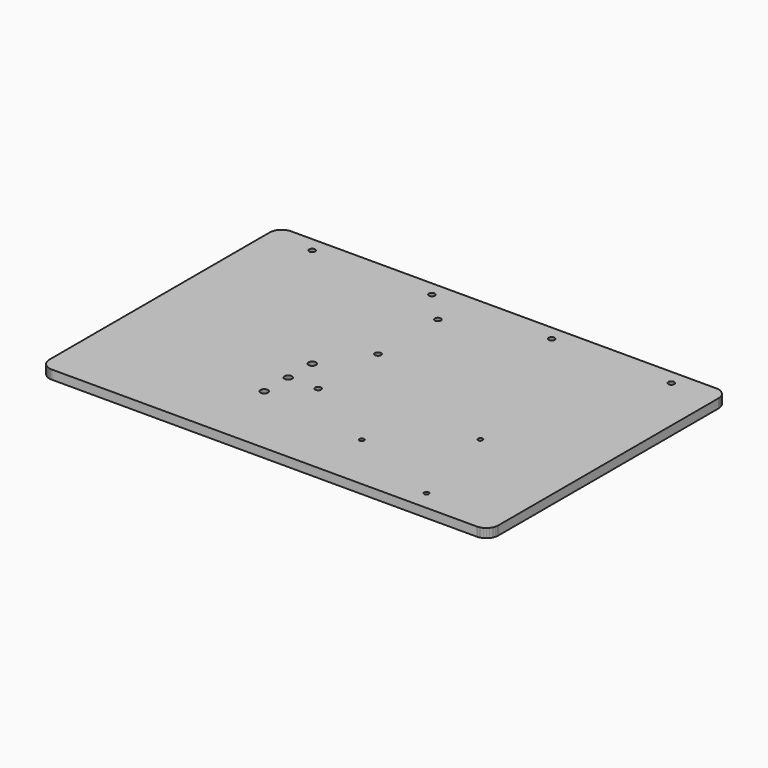
from build123d import *

# Parameters (mm, degrees)
F1_DEPTH = 6


with BuildPart() as f1:
    # F0 (on Top) → F1 (new body)
    with BuildSketch(Plane.XY):
        Polygon((142, -100), (142.784, -99.961487), (143.561, -99.846283), (144.322, -99.655533), (145.061, -99.391037), (145.771, -99.055374), (146.445, -98.65176), (147.075, -98.1841), (147.657, -97.65686), (148.184, -97.07515), (148.652, -96.44456), (149.055, -95.77118), (149.391, -95.06148), (149.656, -94.32228), (149.846, -93.56073), (149.961, -92.78415), (150, -92), (150, 92), (149.961, 92.784), (149.846, 93.561), (149.656, 94.322), (149.391, 95.061), (149.055, 95.771), (148.652, 96.445), (148.184, 97.075), (147.657, 97.657), (147.075, 98.184), (146.445, 98.652), (145.771, 99.055), (145.061, 99.391), (144.322, 99.656), (143.561, 99.846), (142.784, 99.961), (142, 100), (-142, 100), (-142.78415, 99.961), (-143.56073, 99.846), (-144.32228, 99.656), (-145.06148, 99.391), (-145.77118, 99.055), (-146.44456, 98.652), (-147.07515, 98.184), (-147.65686, 97.657), (-148.1841, 97.075), (-148.65176, 96.445), (-149.055374, 95.771), (-149.391037, 95.061), (-149.655533, 94.322), (-149.846283, 93.561), (-149.961487, 92.784), (-150, 92), (-150, -92), (-149.961487, -92.78415), (-149.846283, -93.56073), (-149.655533, -94.32228), (-149.391037, -95.06148), (-149.055374, -95.77118), (-148.65176, -96.44456), (-148.1841, -97.07515), (-147.65686, -97.65686), (-147.07515, -98.1841), (-146.44456, -98.65176), (-145.77118, -99.055374), (-145.06148, -99.391037), (-144.32228, -99.655533), (-143.56073, -99.846283), (-142.78415, -99.961487), (-142.00002, -100), align=None)
        Polygon((-40, -52.5), (-40.245, -52.488), (-40.488, -52.452), (-40.726, -52.3924), (-40.957, -52.3097), (-41.178, -52.2048), (-41.389, -52.0787), (-41.586, -51.9325), (-41.768, -51.7678), (-41.933, -51.586), (-42.079, -51.3889), (-42.205, -51.1785), (-42.31, -50.9567), (-42.392, -50.7257), (-42.452, -50.4877), (-42.488, -50.2451), (-42.5, -50), (-42.488, -49.755), (-42.452, -49.5123), (-42.392, -49.2743), (-42.31, -49.0433), (-42.205, -48.8215), (-42.079, -48.6111), (-41.933, -48.414), (-41.768, -48.2322), (-41.586, -48.0675), (-41.389, -47.9213), (-41.178, -47.7952), (-40.957, -47.6903), (-40.726, -47.6077), (-40.488, -47.548), (-40.245, -47.512), (-40, -47.5), (-39.755, -47.512), (-39.512, -47.548), (-39.274, -47.6077), (-39.043, -47.6903), (-38.822, -47.7952), (-38.611, -47.9213), (-38.414, -48.0675), (-38.232, -48.2322), (-38.067, -48.414), (-37.921, -48.6111), (-37.795, -48.8215), (-37.69, -49.0433), (-37.608, -49.2743), (-37.548, -49.5123), (-37.512, -49.755), (-37.5, -50), (-37.512, -50.2451), (-37.548, -50.4877), (-37.608, -50.7257), (-37.69, -50.9567), (-37.795, -51.1785), (-37.921, -51.3889), (-38.067, -51.586), (-38.232, -51.7678), (-38.414, -51.9325), (-38.611, -52.0787), (-38.822, -52.2048), (-39.043, -52.3097), (-39.274, -52.3924), (-39.512, -52.452), (-39.755, -52.488), align=None, mode=Mode.SUBTRACT)
        Polygon((-40, -32.5), (-40.245, -32.488), (-40.488, -32.452), (-40.726, -32.3924), (-40.957, -32.3097), (-41.178, -32.2048), (-41.389, -32.0787), (-41.586, -31.9325), (-41.768, -31.7678), (-41.933, -31.586), (-42.079, -31.3889), (-42.205, -31.1785), (-42.31, -30.9567), (-42.392, -30.7257), (-42.452, -30.4877), (-42.488, -30.2451), (-42.5, -30), (-42.488, -29.755), (-42.452, -29.5123), (-42.392, -29.2743), (-42.31, -29.0433), (-42.205, -28.8215), (-42.079, -28.6111), (-41.933, -28.414), (-41.768, -28.2322), (-41.586, -28.0675), (-41.389, -27.9213), (-41.178, -27.7952), (-40.957, -27.6903), (-40.726, -27.6077), (-40.488, -27.548), (-40.245, -27.512), (-40, -27.5), (-39.755, -27.512), (-39.512, -27.548), (-39.274, -27.6077), (-39.043, -27.6903), (-38.822, -27.7952), (-38.611, -27.9213), (-38.414, -28.0675), (-38.232, -28.2322), (-38.067, -28.414), (-37.921, -28.6111), (-37.795, -28.8215), (-37.69, -29.0433), (-37.608, -29.2743), (-37.548, -29.5123), (-37.512, -29.755), (-37.5, -30), (-37.512, -30.2451), (-37.548, -30.4877), (-37.608, -30.7257), (-37.69, -30.9567), (-37.795, -31.1785), (-37.921, -31.3889), (-38.067, -31.586), (-38.232, -31.7678), (-38.414, -31.9325), (-38.611, -32.0787), (-38.822, -32.2048), (-39.043, -32.3097), (-39.274, -32.3924), (-39.512, -32.452), (-39.755, -32.488), align=None, mode=Mode.SUBTRACT)
        Polygon((-20, -32), (-20.196, -31.9904), (-20.39, -31.9616), (-20.581, -31.9139), (-20.765, -31.8478), (-20.943, -31.7639), (-21.111, -31.6629), (-21.269, -31.546), (-21.414, -31.4142), (-21.546, -31.2688), (-21.663, -31.1111), (-21.764, -30.9428), (-21.848, -30.7654), (-21.914, -30.5806), (-21.962, -30.3902), (-21.99, -30.196), (-22, -30), (-21.99, -29.804), (-21.962, -29.6098), (-21.914, -29.4194), (-21.848, -29.2346), (-21.764, -29.0572), (-21.663, -28.8889), (-21.546, -28.7312), (-21.414, -28.5858), (-21.269, -28.454), (-21.111, -28.3371), (-20.943, -28.2362), (-20.765, -28.1523), (-20.581, -28.0861), (-20.39, -28.0384), (-20.196, -28.0096), (-20, -28), (-19.804, -28.0096), (-19.61, -28.0384), (-19.419, -28.0861), (-19.235, -28.1523), (-19.057, -28.2362), (-18.889, -28.3371), (-18.731, -28.454), (-18.586, -28.5858), (-18.454, -28.7312), (-18.337, -28.8889), (-18.236, -29.0572), (-18.152, -29.2346), (-18.086, -29.4194), (-18.038, -29.6098), (-18.01, -29.804), (-18, -30), (-18.01, -30.196), (-18.038, -30.3902), (-18.086, -30.5806), (-18.152, -30.7654), (-18.236, -30.9428), (-18.337, -31.1111), (-18.454, -31.2688), (-18.586, -31.4142), (-18.731, -31.546), (-18.889, -31.6629), (-19.057, -31.7639), (-19.235, -31.8478), (-19.419, -31.9139), (-19.61, -31.9616), (-19.804, -31.9904), align=None, mode=Mode.SUBTRACT)
        Polygon((-40, -12.5), (-40.245, -12.488), (-40.488, -12.452), (-40.726, -12.3924), (-40.957, -12.3097), (-41.178, -12.2048), (-41.389, -12.0787), (-41.586, -11.9325), (-41.768, -11.7678), (-41.933, -11.586), (-42.079, -11.3889), (-42.205, -11.1785), (-42.31, -10.9567), (-42.392, -10.7257), (-42.452, -10.4877), (-42.488, -10.2451), (-42.5, -10), (-42.488, -9.755), (-42.452, -9.5123), (-42.392, -9.2743), (-42.31, -9.0433), (-42.205, -8.8215), (-42.079, -8.6111), (-41.933, -8.414), (-41.768, -8.2322), (-41.586, -8.0675), (-41.389, -7.9213), (-41.178, -7.7952), (-40.957, -7.6903), (-40.726, -7.6077), (-40.488, -7.548), (-40.245, -7.512), (-40, -7.5), (-39.755, -7.512), (-39.512, -7.548), (-39.274, -7.6077), (-39.043, -7.6903), (-38.822, -7.7952), (-38.611, -7.9213), (-38.414, -8.0675), (-38.232, -8.2322), (-38.067, -8.414), (-37.921, -8.6111), (-37.795, -8.8215), (-37.69, -9.0433), (-37.608, -9.2743), (-37.548, -9.5123), (-37.512, -9.755), (-37.5, -10), (-37.512, -10.2451), (-37.548, -10.4877), (-37.608, -10.7257), (-37.69, -10.9567), (-37.795, -11.1785), (-37.921, -11.3889), (-38.067, -11.586), (-38.232, -11.7678), (-38.414, -11.9325), (-38.611, -12.0787), (-38.822, -12.2048), (-39.043, -12.3097), (-39.274, -12.3924), (-39.512, -12.452), (-39.755, -12.488), align=None, mode=Mode.SUBTRACT)
        Polygon((34, -62.55), (33.848, -62.5425), (33.698, -62.5202), (33.55, -62.4833), (33.407, -62.432), (33.269, -62.367), (33.139, -62.2888), (33.017, -62.1982), (32.904, -62.096), (32.802, -61.9833), (32.711, -61.8611), (32.633, -61.7307), (32.568, -61.5932), (32.517, -61.45), (32.48, -61.3024), (32.457, -61.1519), (32.45, -61), (32.457, -60.8481), (32.48, -60.6976), (32.517, -60.5501), (32.568, -60.4068), (32.633, -60.2693), (32.711, -60.1389), (32.802, -60.0167), (32.904, -59.904), (33.017, -59.8018), (33.139, -59.7112), (33.269, -59.633), (33.407, -59.568), (33.55, -59.5168), (33.698, -59.4798), (33.848, -59.4575), (34, -59.45), (34.152, -59.4575), (34.302, -59.4798), (34.45, -59.5168), (34.593, -59.568), (34.731, -59.633), (34.861, -59.7112), (34.983, -59.8018), (35.096, -59.904), (35.198, -60.0167), (35.289, -60.1389), (35.367, -60.2693), (35.432, -60.4068), (35.483, -60.5501), (35.52, -60.6976), (35.543, -60.8481), (35.55, -61), (35.543, -61.1519), (35.52, -61.3024), (35.483, -61.45), (35.432, -61.5932), (35.367, -61.7307), (35.289, -61.8611), (35.198, -61.9833), (35.096, -62.096), (34.983, -62.1982), (34.861, -62.2888), (34.731, -62.367), (34.593, -62.432), (34.45, -62.4833), (34.302, -62.5202), (34.152, -62.5425), align=None, mode=Mode.SUBTRACT)
        Polygon((98, -88.55), (97.848, -88.5425), (97.698, -88.5202), (97.55, -88.4833), (97.407, -88.432), (97.269, -88.367), (97.139, -88.2888), (97.017, -88.1982), (96.904, -88.096), (96.802, -87.9833), (96.711, -87.8611), (96.633, -87.7307), (96.568, -87.5932), (96.517, -87.45), (96.48, -87.3024), (96.457, -87.1519), (96.45, -87), (96.457, -86.8481), (96.48, -86.6976), (96.517, -86.5501), (96.568, -86.4068), (96.633, -86.2693), (96.711, -86.1389), (96.802, -86.0167), (96.904, -85.904), (97.017, -85.8018), (97.139, -85.7112), (97.269, -85.633), (97.407, -85.568), (97.55, -85.5168), (97.698, -85.4798), (97.848, -85.4575), (98, -85.45), (98.152, -85.4575), (98.302, -85.4798), (98.45, -85.5168), (98.593, -85.568), (98.731, -85.633), (98.861, -85.7112), (98.983, -85.8018), (99.096, -85.904), (99.198, -86.0167), (99.289, -86.1389), (99.367, -86.2693), (99.432, -86.4068), (99.483, -86.5501), (99.52, -86.6976), (99.543, -86.8481), (99.55, -87), (99.543, -87.1519), (99.52, -87.3024), (99.483, -87.45), (99.432, -87.5932), (99.367, -87.7307), (99.289, -87.8611), (99.198, -87.9833), (99.096, -88.096), (98.983, -88.1982), (98.861, -88.2888), (98.731, -88.367), (98.593, -88.432), (98.45, -88.4833), (98.302, -88.5202), (98.152, -88.5425), align=None, mode=Mode.SUBTRACT)
        Polygon((82, -23.55), (81.848, -23.5425), (81.698, -23.5202), (81.55, -23.4833), (81.407, -23.432), (81.269, -23.367), (81.139, -23.2888), (81.017, -23.1982), (80.904, -23.096), (80.802, -22.9833), (80.711, -22.8611), (80.633, -22.7307), (80.568, -22.5932), (80.517, -22.45), (80.48, -22.3024), (80.457, -22.1519), (80.45, -22), (80.457, -21.8481), (80.48, -21.6976), (80.517, -21.5501), (80.568, -21.4068), (80.633, -21.2693), (80.711, -21.1389), (80.802, -21.0167), (80.904, -20.904), (81.017, -20.8018), (81.139, -20.7112), (81.269, -20.633), (81.407, -20.568), (81.55, -20.5168), (81.698, -20.4798), (81.848, -20.4575), (82, -20.45), (82.152, -20.4575), (82.302, -20.4798), (82.45, -20.5168), (82.593, -20.568), (82.731, -20.633), (82.861, -20.7112), (82.983, -20.8018), (83.096, -20.904), (83.198, -21.0167), (83.289, -21.1389), (83.367, -21.2693), (83.432, -21.4068), (83.483, -21.5501), (83.52, -21.6976), (83.543, -21.8481), (83.55, -22), (83.543, -22.1519), (83.52, -22.3024), (83.483, -22.45), (83.432, -22.5932), (83.367, -22.7307), (83.289, -22.8611), (83.198, -22.9833), (83.096, -23.096), (82.983, -23.1982), (82.861, -23.2888), (82.731, -23.367), (82.593, -23.432), (82.45, -23.4833), (82.302, -23.5202), (82.152, -23.5425), align=None, mode=Mode.SUBTRACT)
        Polygon((-20, 18), (-20.196, 18.01), (-20.39, 18.038), (-20.581, 18.086), (-20.765, 18.152), (-20.943, 18.236), (-21.111, 18.337), (-21.269, 18.454), (-21.414, 18.586), (-21.546, 18.731), (-21.663, 18.889), (-21.764, 19.057), (-21.848, 19.235), (-21.914, 19.419), (-21.962, 19.61), (-21.99, 19.804), (-22, 20), (-21.99, 20.196), (-21.962, 20.39), (-21.914, 20.581), (-21.848, 20.765), (-21.764, 20.943), (-21.663, 21.111), (-21.546, 21.269), (-21.414, 21.414), (-21.269, 21.546), (-21.111, 21.663), (-20.943, 21.764), (-20.765, 21.848), (-20.581, 21.914), (-20.39, 21.962), (-20.196, 21.99), (-20, 22), (-19.804, 21.99), (-19.61, 21.962), (-19.419, 21.914), (-19.235, 21.848), (-19.057, 21.764), (-18.889, 21.663), (-18.731, 21.546), (-18.586, 21.414), (-18.454, 21.269), (-18.337, 21.111), (-18.236, 20.943), (-18.152, 20.765), (-18.086, 20.581), (-18.038, 20.39), (-18.01, 20.196), (-18, 20), (-18.01, 19.804), (-18.038, 19.61), (-18.086, 19.419), (-18.152, 19.235), (-18.236, 19.057), (-18.337, 18.889), (-18.454, 18.731), (-18.586, 18.586), (-18.731, 18.454), (-18.889, 18.337), (-19.057, 18.236), (-19.235, 18.152), (-19.419, 18.086), (-19.61, 18.038), (-19.804, 18.01), align=None, mode=Mode.SUBTRACT)
        Polygon((-120, 88), (-120.196, 88.01), (-120.3902, 88.038), (-120.5806, 88.086), (-120.7654, 88.152), (-120.9428, 88.236), (-121.1111, 88.337), (-121.2688, 88.454), (-121.4142, 88.586), (-121.546, 88.731), (-121.6629, 88.889), (-121.7639, 89.057), (-121.8478, 89.235), (-121.9139, 89.419), (-121.9616, 89.61), (-121.9904, 89.804), (-122, 90), (-121.9904, 90.196), (-121.9616, 90.39), (-121.9139, 90.581), (-121.8478, 90.765), (-121.7639, 90.943), (-121.6629, 91.111), (-121.546, 91.269), (-121.4142, 91.414), (-121.2688, 91.546), (-121.1111, 91.663), (-120.9428, 91.764), (-120.7654, 91.848), (-120.5806, 91.914), (-120.3902, 91.962), (-120.196, 91.99), (-120, 92), (-119.804, 91.99), (-119.6098, 91.962), (-119.4194, 91.914), (-119.2346, 91.848), (-119.0572, 91.764), (-118.8889, 91.663), (-118.7312, 91.546), (-118.5858, 91.414), (-118.454, 91.269), (-118.3371, 91.111), (-118.2362, 90.943), (-118.1523, 90.765), (-118.0861, 90.581), (-118.0384, 90.39), (-118.0096, 90.196), (-118, 90), (-118.0096, 89.804), (-118.0384, 89.61), (-118.0861, 89.419), (-118.1523, 89.235), (-118.2362, 89.057), (-118.3371, 88.889), (-118.454, 88.731), (-118.5858, 88.586), (-118.7312, 88.454), (-118.8889, 88.337), (-119.0572, 88.236), (-119.2346, 88.152), (-119.4194, 88.086), (-119.6098, 88.038), (-119.804, 88.01), align=None, mode=Mode.SUBTRACT)
        Polygon((-20, 68), (-20.196, 68.01), (-20.39, 68.038), (-20.581, 68.086), (-20.765, 68.152), (-20.943, 68.236), (-21.111, 68.337), (-21.269, 68.454), (-21.414, 68.586), (-21.546, 68.731), (-21.663, 68.889), (-21.764, 69.057), (-21.848, 69.235), (-21.914, 69.419), (-21.962, 69.61), (-21.99, 69.804), (-22, 70), (-21.99, 70.196), (-21.962, 70.39), (-21.914, 70.581), (-21.848, 70.765), (-21.764, 70.943), (-21.663, 71.111), (-21.546, 71.269), (-21.414, 71.414), (-21.269, 71.546), (-21.111, 71.663), (-20.943, 71.764), (-20.765, 71.848), (-20.581, 71.914), (-20.39, 71.962), (-20.196, 71.99), (-20, 72), (-19.804, 71.99), (-19.61, 71.962), (-19.419, 71.914), (-19.235, 71.848), (-19.057, 71.764), (-18.889, 71.663), (-18.731, 71.546), (-18.586, 71.414), (-18.454, 71.269), (-18.337, 71.111), (-18.236, 70.943), (-18.152, 70.765), (-18.086, 70.581), (-18.038, 70.39), (-18.01, 70.196), (-18, 70), (-18.01, 69.804), (-18.038, 69.61), (-18.086, 69.419), (-18.152, 69.235), (-18.236, 69.057), (-18.337, 68.889), (-18.454, 68.731), (-18.586, 68.586), (-18.731, 68.454), (-18.889, 68.337), (-19.057, 68.236), (-19.235, 68.152), (-19.419, 68.086), (-19.61, 68.038), (-19.804, 68.01), align=None, mode=Mode.SUBTRACT)
        Polygon((-40, 88), (-40.196, 88.01), (-40.39, 88.038), (-40.581, 88.086), (-40.765, 88.152), (-40.943, 88.236), (-41.111, 88.337), (-41.269, 88.454), (-41.414, 88.586), (-41.546, 88.731), (-41.663, 88.889), (-41.764, 89.057), (-41.848, 89.235), (-41.914, 89.419), (-41.962, 89.61), (-41.99, 89.804), (-42, 90), (-41.99, 90.196), (-41.962, 90.39), (-41.914, 90.581), (-41.848, 90.765), (-41.764, 90.943), (-41.663, 91.111), (-41.546, 91.269), (-41.414, 91.414), (-41.269, 91.546), (-41.111, 91.663), (-40.943, 91.764), (-40.765, 91.848), (-40.581, 91.914), (-40.39, 91.962), (-40.196, 91.99), (-40, 92), (-39.804, 91.99), (-39.61, 91.962), (-39.419, 91.914), (-39.235, 91.848), (-39.057, 91.764), (-38.889, 91.663), (-38.731, 91.546), (-38.586, 91.414), (-38.454, 91.269), (-38.337, 91.111), (-38.236, 90.943), (-38.152, 90.765), (-38.086, 90.581), (-38.038, 90.39), (-38.01, 90.196), (-38, 90), (-38.01, 89.804), (-38.038, 89.61), (-38.086, 89.419), (-38.152, 89.235), (-38.236, 89.057), (-38.337, 88.889), (-38.454, 88.731), (-38.586, 88.586), (-38.731, 88.454), (-38.889, 88.337), (-39.057, 88.236), (-39.235, 88.152), (-39.419, 88.086), (-39.61, 88.038), (-39.804, 88.01), align=None, mode=Mode.SUBTRACT)
        Polygon((40, 88), (39.804, 88.01), (39.61, 88.038), (39.419, 88.086), (39.235, 88.152), (39.057, 88.236), (38.889, 88.337), (38.731, 88.454), (38.586, 88.586), (38.454, 88.731), (38.337, 88.889), (38.236, 89.057), (38.152, 89.235), (38.086, 89.419), (38.038, 89.61), (38.01, 89.804), (38, 90), (38.01, 90.196), (38.038, 90.39), (38.086, 90.581), (38.152, 90.765), (38.236, 90.943), (38.337, 91.111), (38.454, 91.269), (38.586, 91.414), (38.731, 91.546), (38.889, 91.663), (39.057, 91.764), (39.235, 91.848), (39.419, 91.914), (39.61, 91.962), (39.804, 91.99), (40, 92), (40.196, 91.99), (40.39, 91.962), (40.581, 91.914), (40.765, 91.848), (40.943, 91.764), (41.111, 91.663), (41.269, 91.546), (41.414, 91.414), (41.546, 91.269), (41.663, 91.111), (41.764, 90.943), (41.848, 90.765), (41.914, 90.581), (41.962, 90.39), (41.99, 90.196), (42, 90), (41.99, 89.804), (41.962, 89.61), (41.914, 89.419), (41.848, 89.235), (41.764, 89.057), (41.663, 88.889), (41.546, 88.731), (41.414, 88.586), (41.269, 88.454), (41.111, 88.337), (40.943, 88.236), (40.765, 88.152), (40.581, 88.086), (40.39, 88.038), (40.196, 88.01), align=None, mode=Mode.SUBTRACT)
        Polygon((120, 88), (119.804, 88.01), (119.61, 88.038), (119.419, 88.086), (119.235, 88.152), (119.057, 88.236), (118.889, 88.337), (118.731, 88.454), (118.586, 88.586), (118.454, 88.731), (118.337, 88.889), (118.236, 89.057), (118.152, 89.235), (118.086, 89.419), (118.038, 89.61), (118.01, 89.804), (118, 90), (118.01, 90.196), (118.038, 90.39), (118.086, 90.581), (118.152, 90.765), (118.236, 90.943), (118.337, 91.111), (118.454, 91.269), (118.586, 91.414), (118.731, 91.546), (118.889, 91.663), (119.057, 91.764), (119.235, 91.848), (119.419, 91.914), (119.61, 91.962), (119.804, 91.99), (120, 92), (120.196, 91.99), (120.39, 91.962), (120.581, 91.914), (120.765, 91.848), (120.943, 91.764), (121.111, 91.663), (121.269, 91.546), (121.414, 91.414), (121.546, 91.269), (121.663, 91.111), (121.764, 90.943), (121.848, 90.765), (121.914, 90.581), (121.962, 90.39), (121.99, 90.196), (122, 90), (121.99, 89.804), (121.962, 89.61), (121.914, 89.419), (121.848, 89.235), (121.764, 89.057), (121.663, 88.889), (121.546, 88.731), (121.414, 88.586), (121.269, 88.454), (121.111, 88.337), (120.943, 88.236), (120.765, 88.152), (120.581, 88.086), (120.39, 88.038), (120.196, 88.01), align=None, mode=Mode.SUBTRACT)
    extrude(amount=F1_DEPTH)


solid = f1.part
